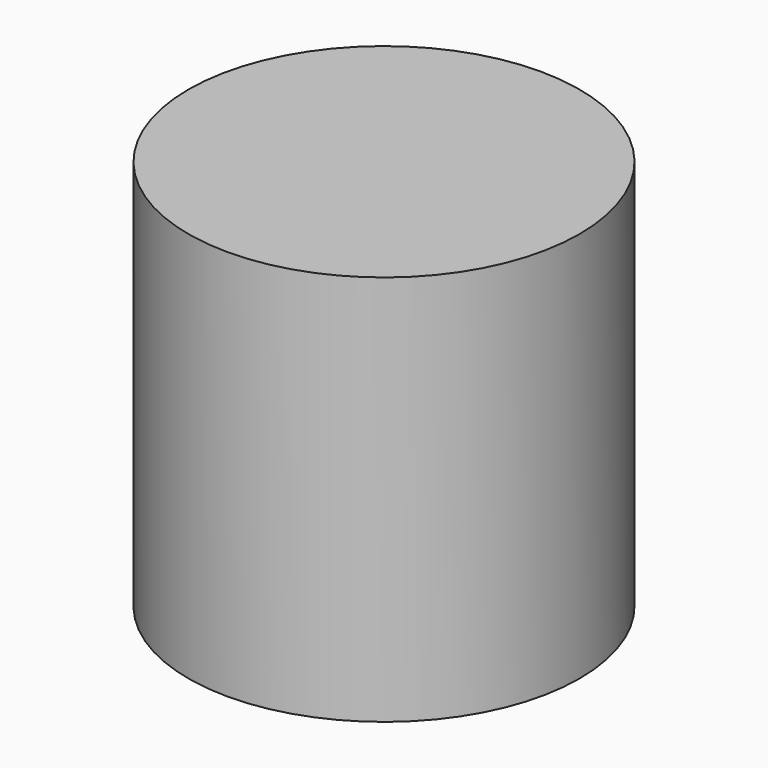
from build123d import *

# Parameters (mm, degrees)
F0_R     = 50
F1_DEPTH = 100
F3_DEPTH = 10
F4_R     = 10
F5_DEPTH = 20


with BuildPart() as f1:
    # F0 (on Top) → F1 (new body)
    with BuildSketch(Plane.XY):
        Circle(F0_R)
    extrude(amount=F1_DEPTH)

    # F2 (on Front) → F3 (cut, symmetric)
    with BuildSketch(Plane.XZ):
        with BuildLine():
            add(Edge.make_bspline(
                [(0, 55), (-77.9422863406, 55), (-38.9711431703, -27.5), (0, -110), (38.9711431703, -27.5), (77.9422863406, 55), (0, 55)],
                knots=[0, 0, 0, 2.0943951024, 2.0943951024, 4.1887902048, 4.1887902048, 6.2831853072, 6.2831853072, 6.2831853072], degree=2, weights=[1, 0.5, 1, 0.5, 1, 0.5, 1]))
        make_face()
    extrude(amount=F3_DEPTH, both=True, mode=Mode.SUBTRACT)

    # F4 (on Front) → F5 (cut, symmetric)
    with BuildSketch(Plane.XZ):
        with Locations((0, 30)):
            Circle(F4_R)
    extrude(amount=F5_DEPTH, both=True, mode=Mode.SUBTRACT)


solid = f1.part
